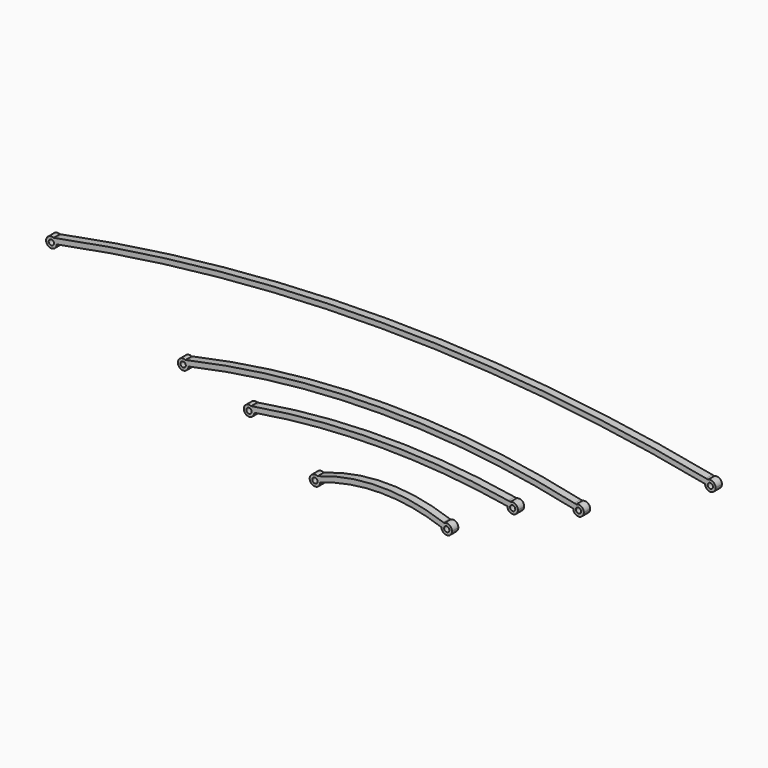
from build123d import *

# Parameters (mm, degrees)
F0_R     = 1
F1_DEPTH = 3
F2_R     = 1
F3_DEPTH = 3
F4_R     = 1
F5_DEPTH = 3
F6_R     = 1
F7_DEPTH = 3


with BuildPart() as f1:
    # F0 (on Front) → F1 (new body)
    with BuildSketch(Plane.XZ):
        with BuildLine():
            ThreePointArc((-124.152261, 1.811447), (-126.687525, -1.073434), (-123, 0))
            ThreePointArc((-123, 0), (-123.312475, 1.073434), (-124.152261, 1.811447))
        make_face()
        with Locations((-125, 0)):
            Circle(F0_R, mode=Mode.SUBTRACT)
        with BuildLine():
            ThreePointArc((0, 12), (61.79199, 8.992895), (123, 0))
            ThreePointArc((123, 0), (123.312475, 1.073434), (124.152261, 1.811447))
            Line((124.152261, 1.811447), (123.386565, 1.962286))
            ThreePointArc((123.386565, 1.962286), (0, 14), (-123.386565, 1.962286))
            Line((-123.386565, 1.962286), (-124.152261, 1.811447))
            ThreePointArc((-124.152261, 1.811447), (-123.312475, 1.073434), (-123, 0))
            ThreePointArc((-123, 0), (-61.79199, 8.992895), (0, 12))
        make_face()
        with BuildLine():
            ThreePointArc((124.152261, 1.811447), (123.312475, 1.073434), (123, 0))
            ThreePointArc((123, 0), (125, -2), (127, 0))
            ThreePointArc((127, 0), (126.073434, 1.687525), (124.152261, 1.811447))
        make_face()
        with BuildLine():
            ThreePointArc((126, 0), (125, -1), (124, 0))
            ThreePointArc((124, 0), (125, 1), (126, 0))
        make_face(mode=Mode.SUBTRACT)
    extrude(amount=F1_DEPTH)


with BuildPart() as f3:
    # F2 (on Front) → F3 (new body)
    with BuildSketch(Plane.XZ):
        with BuildLine():
            ThreePointArc((74.125866, -22.714012), (73.304673, -23.451802), (73, -24.51287))
            ThreePointArc((73, -24.51287), (75, -26.51287), (77, -24.51287))
            ThreePointArc((77, -24.51287), (76.061069, -22.817543), (74.125866, -22.714012))
        make_face()
        with BuildLine():
            ThreePointArc((76, -24.51287), (75, -25.51287), (74, -24.51287))
            ThreePointArc((74, -24.51287), (75, -23.51287), (76, -24.51287))
        make_face(mode=Mode.SUBTRACT)
        with BuildLine():
            ThreePointArc((-74.125866, -22.714012), (-76.695327, -25.573939), (-73, -24.51287))
            ThreePointArc((-73, -24.51287), (-73.304673, -23.451802), (-74.125866, -22.714012))
        make_face()
        with Locations((-75, -24.51287)):
            Circle(F2_R, mode=Mode.SUBTRACT)
        with BuildLine():
            ThreePointArc((-74.125866, -22.714012), (-73.304673, -23.451802), (-73, -24.51287))
            ThreePointArc((-73, -24.51287), (-36.718524, -18.518839), (0, -16.51287))
            ThreePointArc((0, -16.51287), (36.718524, -18.518839), (73, -24.51287))
            ThreePointArc((73, -24.51287), (73.304673, -23.451802), (74.125866, -22.714012))
            Line((74.125866, -22.714012), (73.433154, -22.560339))
            ThreePointArc((73.433154, -22.560339), (0, -14.51287), (-73.433154, -22.560339))
            Line((-73.433154, -22.560339), (-74.125866, -22.714012))
        make_face()
    extrude(amount=F3_DEPTH)


with BuildPart() as f5:
    # F4 (on Front) → F5 (new body)
    with BuildSketch(Plane.XZ):
        with BuildLine():
            ThreePointArc((-24.036911, -45.25252), (-26.721363, -48.023651), (-23, -47.005363))
            ThreePointArc((-23, -47.005363), (-23.278637, -45.987075), (-24.036911, -45.25252))
        make_face()
        with Locations((-25, -47.005363)):
            Circle(F4_R, mode=Mode.SUBTRACT)
        with BuildLine():
            ThreePointArc((0, -43.005363), (11.672618, -44.012812), (23, -47.005363))
            ThreePointArc((23, -47.005363), (23.278637, -45.987075), (24.036911, -45.25252))
            Line((24.036911, -45.25252), (23.675229, -45.122794))
            ThreePointArc((23.675229, -45.122794), (0, -41.005363), (-23.675229, -45.122794))
            Line((-23.675229, -45.122794), (-24.036911, -45.25252))
            ThreePointArc((-24.036911, -45.25252), (-23.278637, -45.987075), (-23, -47.005363))
            ThreePointArc((-23, -47.005363), (-11.672618, -44.012812), (0, -43.005363))
        make_face()
        with BuildLine():
            ThreePointArc((24.036911, -45.25252), (23.278637, -45.987075), (23, -47.005363))
            ThreePointArc((23, -47.005363), (25, -49.005363), (27, -47.005363))
            ThreePointArc((27, -47.005363), (26.018288, -45.284), (24.036911, -45.25252))
        make_face()
        with BuildLine():
            ThreePointArc((26, -47.005363), (25, -48.005363), (24, -47.005363))
            ThreePointArc((24, -47.005363), (25, -46.005363), (26, -47.005363))
        make_face(mode=Mode.SUBTRACT)
    extrude(amount=F5_DEPTH)


with BuildPart() as f7:
    # F6 (on Front) → F7 (new body)
    with BuildSketch(Plane.XZ):
        with BuildLine():
            ThreePointArc((-49.189375, -30.005691), (-51.676492, -32.924632), (-48, -31.834047))
            ThreePointArc((-48, -31.834047), (-48.323508, -30.743462), (-49.189375, -30.005691))
        make_face()
        with Locations((-50, -31.834047)):
            Circle(F6_R, mode=Mode.SUBTRACT)
        with BuildLine():
            ThreePointArc((-49.189375, -30.005691), (-48.323508, -30.743462), (-48, -31.834047))
            ThreePointArc((-48, -31.834047), (-24.083189, -28.835777), (0, -27.834047))
            ThreePointArc((0, -27.834047), (24.083189, -28.835777), (48, -31.834047))
            ThreePointArc((48, -31.834047), (48.323508, -30.743462), (49.189375, -30.005691))
            Line((49.189375, -30.005691), (48.331034, -29.861633))
            ThreePointArc((48.331034, -29.861633), (0, -25.834047), (-48.331034, -29.861633))
            Line((-48.331034, -29.861633), (-49.189375, -30.005691))
        make_face()
        with BuildLine():
            ThreePointArc((49.189375, -30.005691), (48.323508, -30.743462), (48, -31.834047))
            ThreePointArc((48, -31.834047), (50, -33.834047), (52, -31.834047))
            ThreePointArc((52, -31.834047), (51.090585, -30.157556), (49.189375, -30.005691))
        make_face()
        with BuildLine():
            ThreePointArc((51, -31.834047), (50, -32.834047), (49, -31.834047))
            ThreePointArc((49, -31.834047), (50, -30.834047), (51, -31.834047))
        make_face(mode=Mode.SUBTRACT)
    extrude(amount=F7_DEPTH)


solid = Compound([f1.part, f3.part, f5.part, f7.part])
